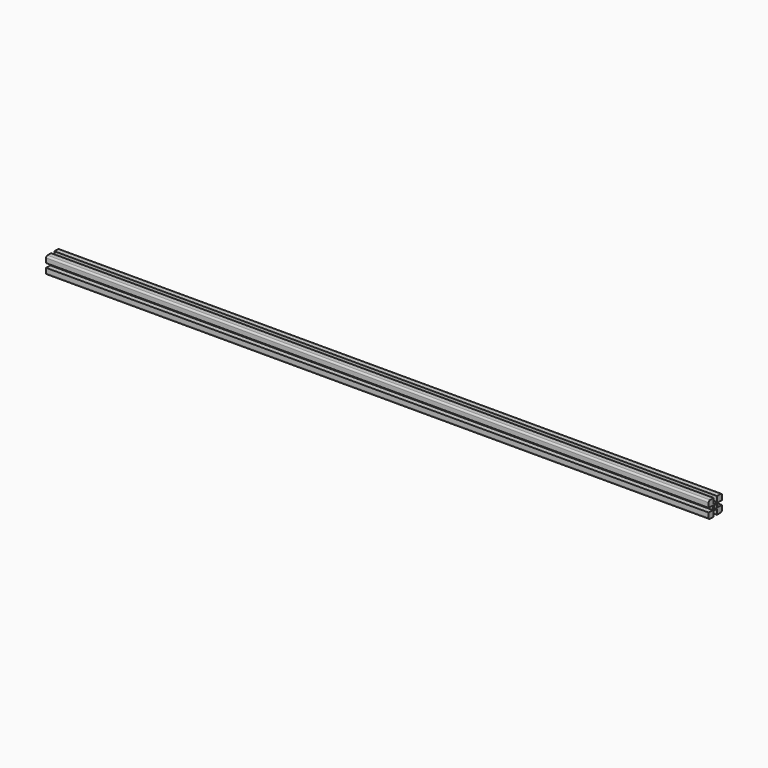
from build123d import *

# Parameters (mm, degrees)
F1_DEPTH = 400
F2_R     = 2.15
F3_DEPTH = 800
F4_R     = 2


with BuildPart() as f1:
    # F0 (on Right) → F1 (new body, symmetric)
    with BuildSketch(Plane.YZ):
        Polygon((-2.5, 10), (-10, 10), (-10, 2.5), (-3.65, 2.5), (-3.65, -2.5), (-10, -2.5), (-10, -10), (-2.5, -10), (-2.5, -3.65), (2.5, -3.65), (2.5, -10), (10, -10), (10, -2.5), (3.65, -2.5), (3.65, 2.5), (10, 2.5), (10, 10), (2.5, 10), (2.5, 3.65), (-2.5, 3.65), align=None)
    extrude(amount=F1_DEPTH, both=True)

    # F2 (on face) → F3 (cut)
    with BuildSketch(Plane(origin=(-400, 0, 0), x_dir=(0, -1, 0), z_dir=(-1, 0, 0))):
        Circle(F2_R)
    extrude(amount=-F3_DEPTH, mode=Mode.SUBTRACT)

    # F4
    f4_edges = [f1.edges().sort_by_distance(p)[0] for p in [
        (0, 10, -10),
        (0, -10, -10),
        (0, -10, 10),
        (0, 10, 10),
    ]]
    fillet(f4_edges, radius=F4_R)


solid = f1.part
